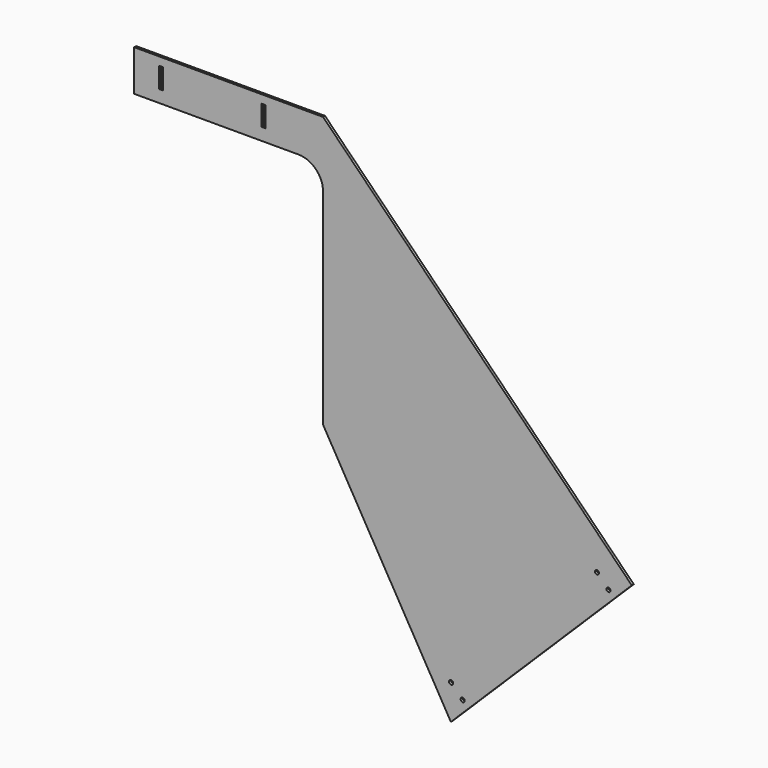
from build123d import *

# Parameters (mm, degrees)
F1_DEPTH = 3
F2_W     = 5
F2_H     = 25
F3_DEPTH = 3.001
F4_R     = 2.5
F5_DEPTH = 3.001


with BuildPart() as f1:
    # F0 (on Front) → F1 (new body)
    with BuildSketch(Plane.XZ):
        with BuildLine():
            Line((-104.934193, 349.7432), (-334.934193, 349.7432))
            Line((-334.934193, 349.7432), (-334.934193, 299.7432))
            Line((-334.934193, 299.7432), (-134.934193, 299.7432))
            ThreePointArc((-134.934193, 299.7432), (-113.720989, 290.956403), (-104.934193, 269.7432))
            Line((-104.934193, 269.7432), (-104.934193, 19.7432))
            Line((-104.934193, 19.7432), (50.776976, -248.312824))
            Line((50.776976, -248.312824), (271.120743, -30.256354))
            Line((271.120743, -30.256354), (-104.934193, 349.7432))
        make_face()
    extrude(amount=F1_DEPTH)

    # F2 (on face) → F3 (cut, through all)
    with BuildSketch(Plane.XZ.offset(3)):
        with Locations((-302.434193, 327.2432)):
            Rectangle(F2_W, F2_H)
        with Locations((-177.434193, 327.2432)):
            Rectangle(F2_W, F2_H)
    extrude(amount=-F3_DEPTH, mode=Mode.SUBTRACT)

    # F4 (on face) → F5 (cut, through all)
    with BuildSketch(Plane.XZ.offset(3)):
        with Locations((228.694914, -30.035003)):
            Circle(F4_R)
        with Locations((242.763073, -44.25073)):
            Circle(F4_R)
        with Locations((50.998327, -205.886995)):
            Circle(F4_R)
        with Locations((65.066486, -220.102722)):
            Circle(F4_R)
    extrude(amount=-F5_DEPTH, mode=Mode.SUBTRACT)


solid = f1.part
